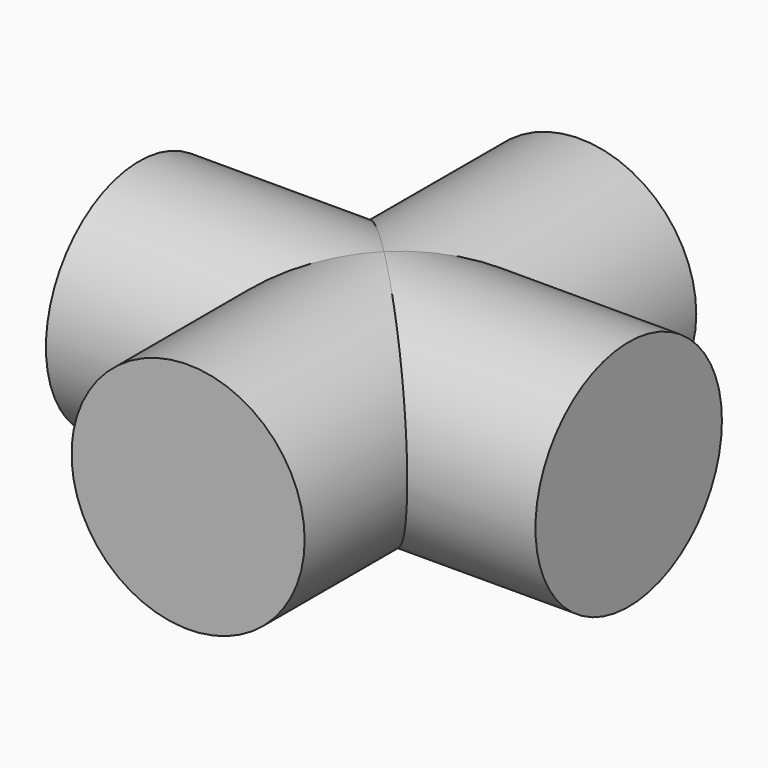
from build123d import *

# Parameters (mm, degrees)
F0_R     = 6.35
F2_DEPTH = 13.335
F1_R     = 6.35
F3_DEPTH = 13.335


with BuildPart() as f2:
    # F0 (on Front) → F2 (new body, symmetric)
    with BuildSketch(Plane.XZ):
        Circle(F0_R)
    extrude(amount=F2_DEPTH, both=True)

    # F1 (on Right) → F3 (join, symmetric)
    with BuildSketch(Plane.YZ):
        Circle(F1_R)
    extrude(amount=F3_DEPTH, both=True)


solid = f2.part
